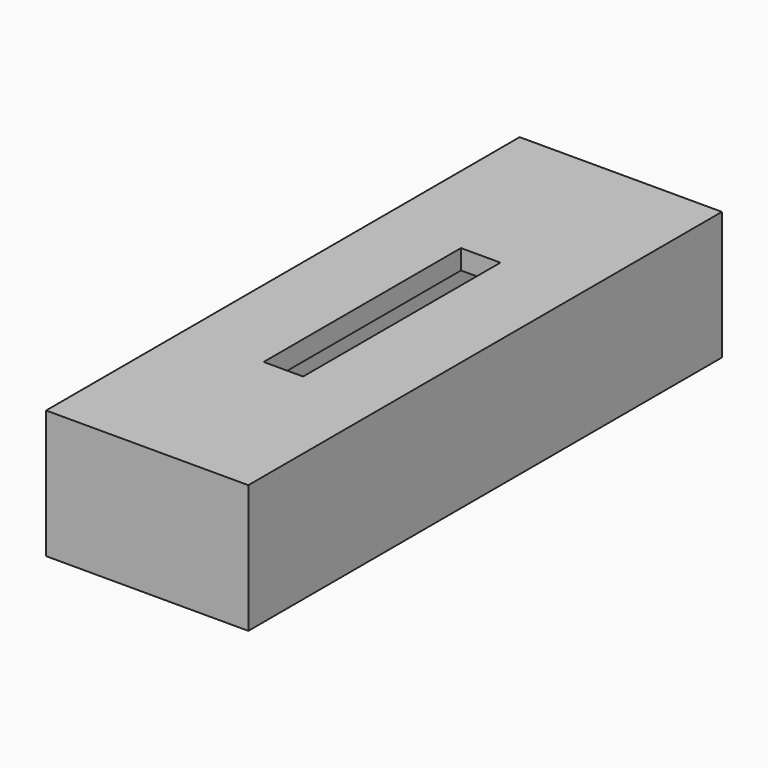
from build123d import *

# Parameters (mm, degrees)
BOX023_W     = 16.5
BOX023_H     = 56
BOX023_DEPTH = 11
BOX027_W     = 4
BOX027_H     = 25
BOX027_DEPTH = 2
BOX024_W     = 20.5
BOX024_H     = 60
BOX024_DEPTH = 13


with BuildPart() as cube023:
    # Box023 → Box023 (new body)
    with BuildSketch(Plane(origin=(-2.25, -11, 0), x_dir=(1, 0, 0), z_dir=(0, 0, 1))):
        with Locations((8.25, 28)):
            Rectangle(BOX023_W, BOX023_H)
    extrude(amount=BOX023_DEPTH)


with BuildPart() as fusion013:
    # Box027 → Box027 (new body)
    with BuildSketch(Plane(origin=(4, 4.25, 11), x_dir=(1, 0, 0), z_dir=(0, 0, 1))):
        with Locations((2, 12.5)):
            Rectangle(BOX027_W, BOX027_H)
    extrude(amount=BOX027_DEPTH)

    # Fusion013: union Cube023
    add(cube023.part)


with BuildPart() as obj1:
    # Box024 → Box024 (new body)
    with BuildSketch(Plane(origin=(-4.25, -13, 0), x_dir=(1, 0, 0), z_dir=(0, 0, 1))):
        with Locations((10.25, 30)):
            Rectangle(BOX024_W, BOX024_H)
    extrude(amount=BOX024_DEPTH)

    # Cut024: cut Fusion013
    add(fusion013.part, mode=Mode.SUBTRACT)


solid = obj1.part
